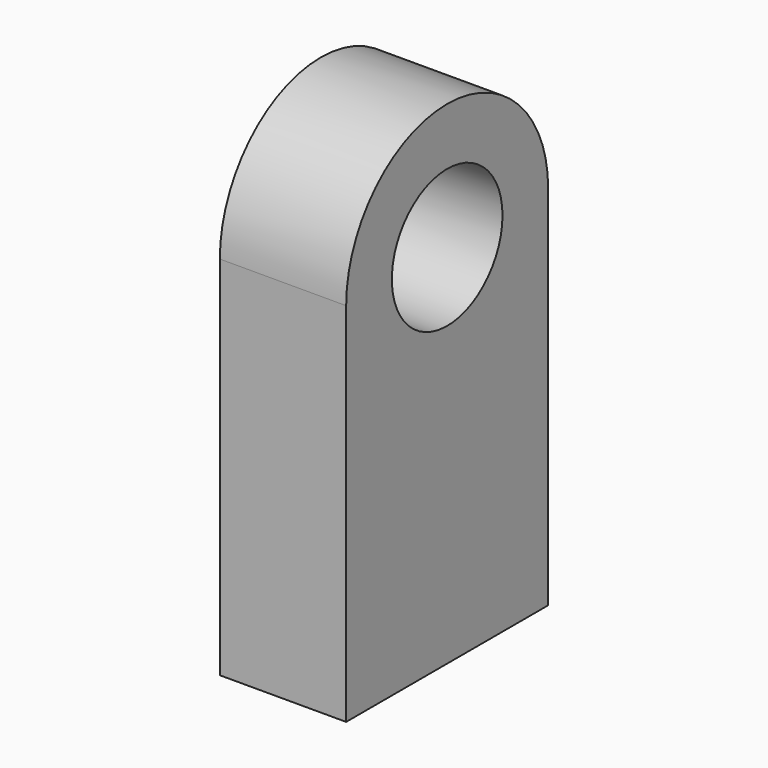
from build123d import *

# Parameters (mm, degrees)
F0_R     = 10.946165
F1_DEPTH = 20


with BuildPart() as f1:
    # F0 (on Right) → F1 (new body)
    with BuildSketch(Plane.YZ):
        with BuildLine():
            Line((-19.988073, -29.00525), (19.988073, -29.00525))
            Line((19.988073, -29.00525), (19.988073, 29.00525))
            ThreePointArc((19.988073, 29.00525), (0, 48.993323), (-19.988073, 29.00525))
            Line((-19.988073, 29.00525), (-19.988073, -29.00525))
        make_face()
        with Locations((0, 29.00525)):
            Circle(F0_R, mode=Mode.SUBTRACT)
    extrude(amount=F1_DEPTH)


solid = f1.part
